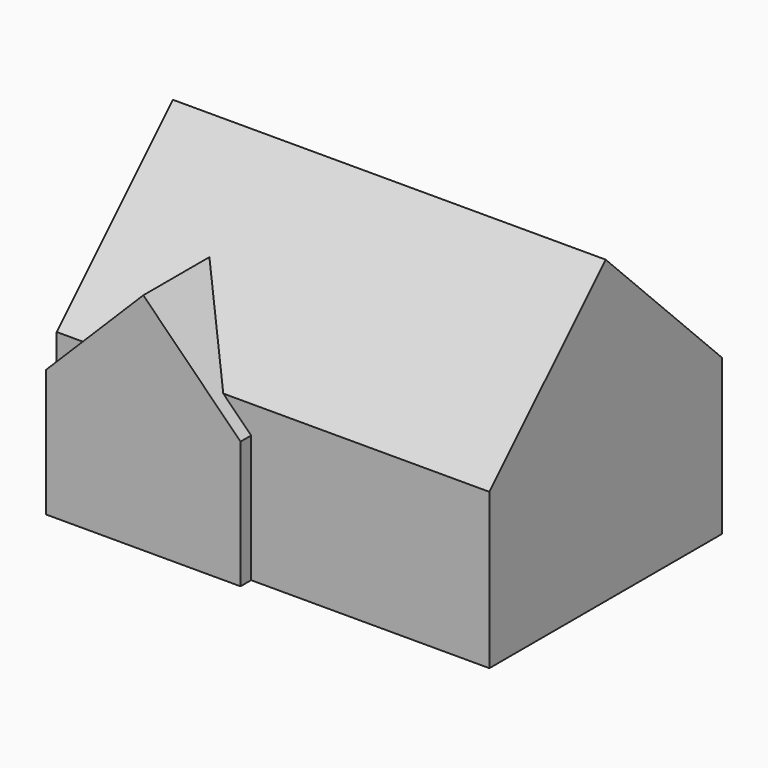
from build123d import *

# Parameters (mm, degrees)
F0_W      = 1795
F0_H      = 1300
F1_DEPTH  = 300
F2_W      = 165
F2_H      = 635
F2_W_2    = 300
F2_H_2    = 135
F2_W_3    = 897.5
F2_H_3    = 50
F2_W_4    = 490
F2_H_4    = 20
F3_DEPTH  = 300
F4_T      = -40
F5_W      = 80
F5_H      = 150
F5_W_2    = 15
F5_H_2    = 40
F5_W_3    = 20
F5_H_3    = 20
F6_DEPTH  = 260
F8_DEPTH  = 25
F10_DEPTH = 50
F12_DEPTH = 260
F14_DEPTH = 400
F16_DEPTH = 1630


with BuildPart() as f1:
    # F0 (on Top) → F1 (new body)
    with BuildSketch(Plane.XY):
        Rectangle(F0_W, F0_H)
    extrude(amount=F1_DEPTH)

    # F2 (on face) → F3 (cut)
    with BuildSketch(Plane(origin=(0, 0, 0), x_dir=(1, 0, 0), z_dir=(0, 0, -1))):
        with Locations((-815, 332.5)):
            Rectangle(F2_W, F2_H)
        with Locations((-747.5, -582.5)):
            Rectangle(F2_W_2, F2_H_2)
        with Locations((448.75, 625)):
            Rectangle(F2_W_3, F2_H_3)
        Polygon((-67.5, -650), (897.5, -650), (897.5, -515), (407.5, -515), (-67.5, -515), align=None)
        with Locations((652.5, -505)):
            Rectangle(F2_W_4, F2_H_4)
    extrude(amount=-F3_DEPTH, mode=Mode.SUBTRACT)

    # F4
    f4_openings = [f1.faces().sort_by_distance(p)[0] for p in [
        (17.505881, -20.736482, 300),
    ]]
    offset(amount=F4_T, openings=f4_openings, kind=Kind.INTERSECTION)

    # F5 (on face) → F6 (join)
    with BuildSketch(Plane.XY.offset(40)):
        Polygon((132.5, 10), (132.5, -560), (147.5, -560), (147.5, 10), (367.5, 10), (367.5, -415), (427.5, -415), (427.5, -560), (437.5, -560), (437.5, -415), (472.5, -415), (472.5, -250), (857.5, -250), (857.5, -235), (382.5, -235), (382.5, 455), (367.5, 455), (367.5, 25), (-92.5, 25), (-92.5, 475), (-107.5, 475), (-107.5, 25), (-557.5, 25), (-557.5, 475), (-572.5, 475), (-572.5, 25), (-692.5, 25), (-692.5, 10), align=None)
        with Locations((422.5, -325)):
            Rectangle(F5_W, F5_H, mode=Mode.SUBTRACT)
        with Locations((-700, 45)):
            Rectangle(F5_W_2, F5_H_2)
        Polygon((-857.5, 215), (-857.5, 205), (-707.5, 205), (-707.5, 165), (-692.5, 165), (-692.5, 205), (-692.5, 215), (-692.5, 275), (-707.5, 275), (-707.5, 215), align=None)
        with Locations((-327.5, -120)):
            Rectangle(F5_W_3, F5_H_3)
    extrude(amount=F6_DEPTH)

    # F7 (on face) → F8 (join)
    with BuildSketch(Plane.XY.offset(300)):
        Polygon((-897.5, -15), (-732.5, -15), (-732.5, -650), (0, -650), (0, -600), (897.5, -600), (897.5, 495), (407.5, 495), (407.5, 515), (-67.5, 515), (-67.5, 650), (-597.5, 650), (-597.5, 515), (-897.5, 515), align=None)
    extrude(amount=F8_DEPTH)

    # F9 (on face) → F10 (join)
    with BuildSketch(Plane.XZ.offset(650)):
        Polygon((-732.5, 480), (-732.5, 325), (0, 325), (0, 480), (-366.25, 846.25), align=None)
    extrude(amount=-F10_DEPTH)

    # F11 (on face) → F12 (join)
    with BuildSketch(Plane.XY.offset(325)):
        Polygon((-897.5, -15), (-732.5, -15), (-732.5, -600), (-692.5, -600), (-542.5, -600), (-542.5, -560), (-692.5, -560), (-692.5, 25), (-857.5, 25), (-857.5, 475), (-557.5, 475), (-557.5, 610), (-107.5, 610), (-107.5, 475), (367.5, 475), (367.5, 455), (857.5, 455), (857.5, -560), (-150, -560), (-150, -600), (0, -600), (897.5, -600), (897.5, 495), (407.5, 495), (407.5, 515), (-67.5, 515), (-67.5, 650), (-597.5, 650), (-597.5, 515), (-897.5, 515), align=None)
    extrude(amount=F12_DEPTH)

    # F13 (on face) → F14 (join)
    with BuildSketch(Plane(origin=(0, -600, 0), x_dir=(-1, 0, 0), z_dir=(0, 1, 0))):
        Polygon((627.5, 585), (366.25, 846.25), (105, 585), align=None)
    extrude(amount=F14_DEPTH)

    # F15 (on face) → F16 (join)
    with BuildSketch(Plane.YZ.offset(897.5)):
        Polygon((-52.5, 1132.5), (-600, 585), (495, 585), align=None)
    extrude(amount=-F16_DEPTH)


solid = f1.part
